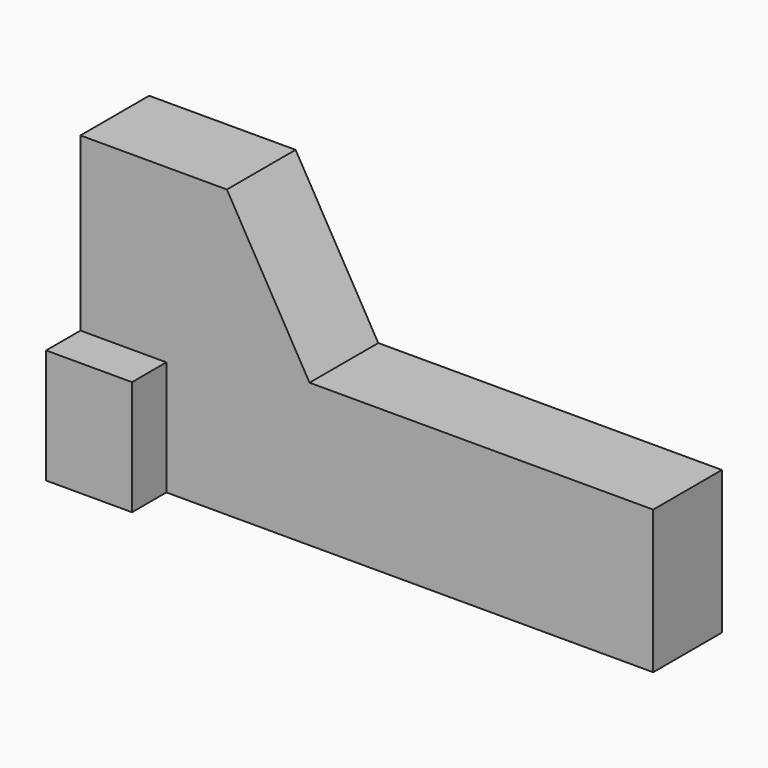
from build123d import *

# Parameters (mm, degrees)
F1_DEPTH = 19.05
F2_W     = 19.05
F2_H     = 25.4
F3_DEPTH = 9.525
F4_W     = 19.05
F4_H     = 25.4
F5_DEPTH = 9.525


with BuildPart() as f1:
    # F0 (on Front) → F1 (new body)
    with BuildSketch(Plane.XZ):
        Polygon((-49.55082, 26.919836), (-49.55082, -36.580164), (77.44918, -36.580164), (77.44918, -4.830164), (1.24918, -4.830164), (-17.081691, 26.919836), align=None)
    extrude(amount=F1_DEPTH)

    # F2 (on face) → F3 (join)
    with BuildSketch(Plane.XZ.offset(19.05)):
        with Locations((-40.02582, -23.880164)):
            Rectangle(F2_W, F2_H)
    extrude(amount=F3_DEPTH)

    # F4 (on face) → F5 (join)
    with BuildSketch(Plane(origin=(0, 0, 0), x_dir=(-1, 0, 0), z_dir=(0, 1, 0))):
        with Locations((40.02582, -23.880164)):
            Rectangle(F4_W, F4_H)
    extrude(amount=F5_DEPTH)


solid = f1.part
